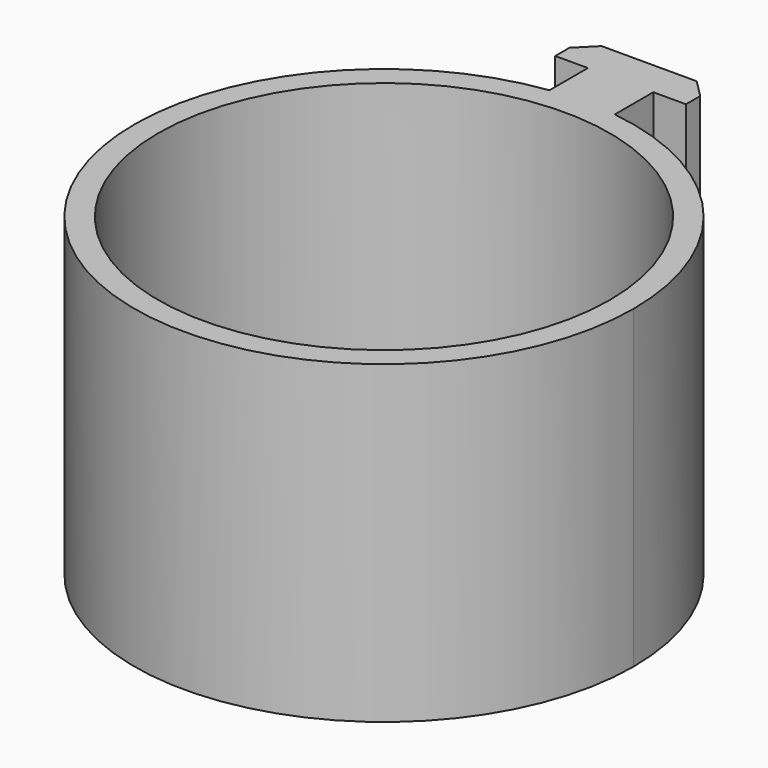
from build123d import *

# Parameters (mm, degrees)
F0_R     = 1.85
F1_DEPTH = 3
F2_R     = 19
F3_DEPTH = 26.5


with BuildPart() as f1:
    # F0 (on Top) → F1 (new body)
    with BuildSketch(Plane.XY):
        with BuildLine():
            ThreePointArc((0, 19), (-13.4350288425, -13.4350288425), (19, 0))
            ThreePointArc((19, 0), (13.4350288425, 13.4350288425), (0, 19))
        make_face()
        with Locations((-7.5, -12.9903810568)):
            Circle(F0_R, mode=Mode.SUBTRACT)
        with Locations((7.5, -12.9903810568)):
            Circle(F0_R, mode=Mode.SUBTRACT)
        with Locations((-15, 0)):
            Circle(F0_R, mode=Mode.SUBTRACT)
        with Locations((-7.5, 12.9903810568)):
            Circle(F0_R, mode=Mode.SUBTRACT)
        with BuildLine():
            ThreePointArc((-4.8621374785, 11.515625), (-2.7300412085, 13.3429275683), (0, 14))
            ThreePointArc((0, 14), (2.7300412085, 13.3429275683), (4.8621374785, 11.515625))
            ThreePointArc((4.8621374785, 11.515625), (6.25, 10.8253175473), (7.5417550512, 9.968547073))
            ThreePointArc((7.5417550512, 9.968547073), (11.3824882978, 8.0198687214), (12.9282032303, 4))
            ThreePointArc((12.9282032303, 4), (12.7956616151, 2.7458341012), (12.4038925297, 1.547077927))
            ThreePointArc((12.4038925297, 1.547077927), (12.4759499963, 0.7750301217), (12.5, 0))
            ThreePointArc((12.5, 0), (12.4759499963, -0.7750301217), (12.4038925297, -1.547077927))
            ThreePointArc((12.4038925297, -1.547077927), (12.7956616151, -2.7458341012), (12.9282032303, -4))
            ThreePointArc((12.9282032303, -4), (11.3824882978, -8.0198687214), (7.5417550512, -9.968547073))
            ThreePointArc((7.5417550512, -9.968547073), (6.25, -10.8253175473), (4.8621374785, -11.515625))
            ThreePointArc((4.8621374785, -11.515625), (0, -14), (-4.8621374785, -11.515625))
            ThreePointArc((-4.8621374785, -11.515625), (-6.25, -10.8253175473), (-7.5417550512, -9.968547073))
            ThreePointArc((-7.5417550512, -9.968547073), (-12.124355653, -7), (-12.4038925297, -1.547077927))
            ThreePointArc((-12.4038925297, -1.547077927), (-12.5, 0), (-12.4038925297, 1.547077927))
            ThreePointArc((-12.4038925297, 1.547077927), (-12.124355653, 7), (-7.5417550512, 9.968547073))
            ThreePointArc((-7.5417550512, 9.968547073), (-6.25, 10.8253175473), (-4.8621374785, 11.515625))
        make_face(mode=Mode.SUBTRACT)
        with Locations((15, 0)):
            Circle(F0_R, mode=Mode.SUBTRACT)
        with Locations((7.5, 12.9903810568)):
            Circle(F0_R, mode=Mode.SUBTRACT)
    extrude(amount=F1_DEPTH)

    # F2 (on Top) → F3 (join)
    with BuildSketch(Plane.XY):
        with BuildLine():
            ThreePointArc((-2.7411704494, 20.8203262358), (-13.8462164609, -15.7886759964), (21, 0))
            ThreePointArc((21, 0), (15.7945468527, 13.8395191289), (2.7588295506, 20.8179936476))
            ThreePointArc((2.7588295506, 20.8179936476), (0.0089062453, 20.9999981114), (-2.7411704494, 20.8203262358))
        make_face()
        Circle(F2_R, mode=Mode.SUBTRACT)
        with BuildLine():
            ThreePointArc((-2.7411704494, 20.8203262358), (0.0089062453, 20.9999981114), (2.7588295506, 20.8179936476))
            Line((2.7588295506, 20.8179936476), (2.7588295506, 24.871483564))
            Line((2.7588295506, 24.871483564), (0.0088295506, 24.871483564))
            Line((0.0088295506, 24.871483564), (-2.7411704494, 24.871483564))
            Line((-2.7411704494, 24.871483564), (-2.7411704494, 20.8203262358))
        make_face()
        Polygon((0.0088295506, 24.871483564), (2.7588295506, 24.871483564), (5.5088295506, 24.871483564), (5.5088295506, 26.371483564), (4.0088295506, 27.871483564), (0.0088295506, 27.871483564), align=None)
        Polygon((-3.3911704494, 24.871483564), (-2.7411704494, 24.871483564), (0.0088295506, 24.871483564), (0.0088295506, 27.871483564), (-3.9911704494, 27.871483564), (-5.4911704494, 26.371483564), (-5.4911704494, 24.871483564), align=None)
    extrude(amount=F3_DEPTH)


solid = f1.part
